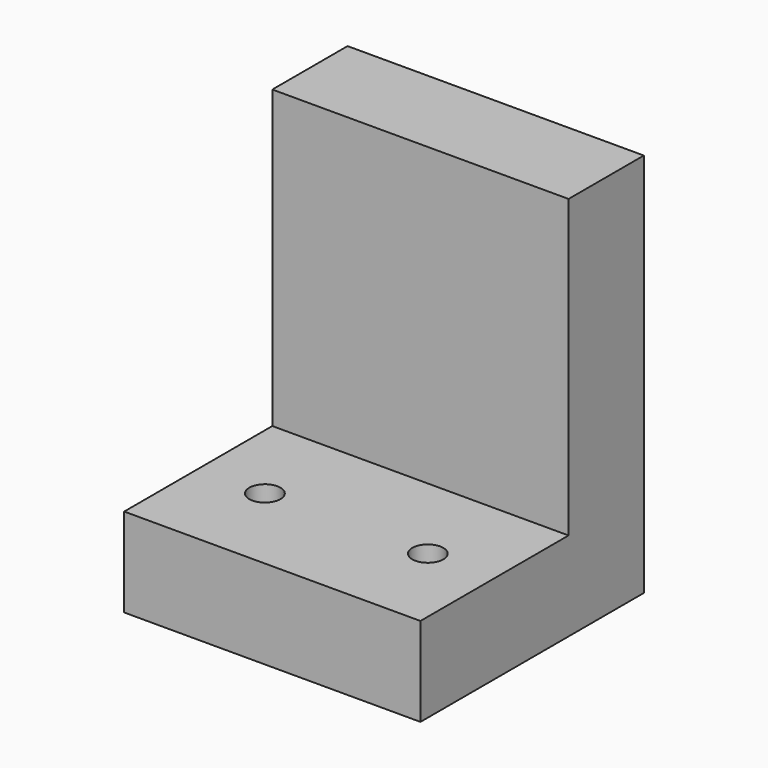
from build123d import *

# Parameters (mm, degrees)
F0_W           = 40
F0_H           = 52
F1_DEPTH       = 37.7
F2_W           = 40
F2_H           = 40
F3_DEPTH       = 25
F5_D           = 4.2
F5_CSINK_D     = 8
F5_CSINK_ANGLE = 90


with BuildPart() as f1:
    # F0 (on Front) → F1 (new body)
    with BuildSketch(Plane.XZ):
        with Locations((20, 26)):
            Rectangle(F0_W, F0_H)
    extrude(amount=F1_DEPTH)

    # F2 (on face) → F3 (cut)
    with BuildSketch(Plane.XZ.offset(37.7)):
        with Locations((20, 32)):
            Rectangle(F2_W, F2_H)
    extrude(amount=-F3_DEPTH, mode=Mode.SUBTRACT)

    # F5 (through all)
    with Locations(Plane(origin=(0, 0, 0), x_dir=(1, 0, 0), z_dir=(0, 0, -1))):
        with Locations((9, 25.2), (31, 25.2)):
            CounterSinkHole(F5_D / 2, F5_CSINK_D / 2, counter_sink_angle=F5_CSINK_ANGLE)


solid = f1.part
